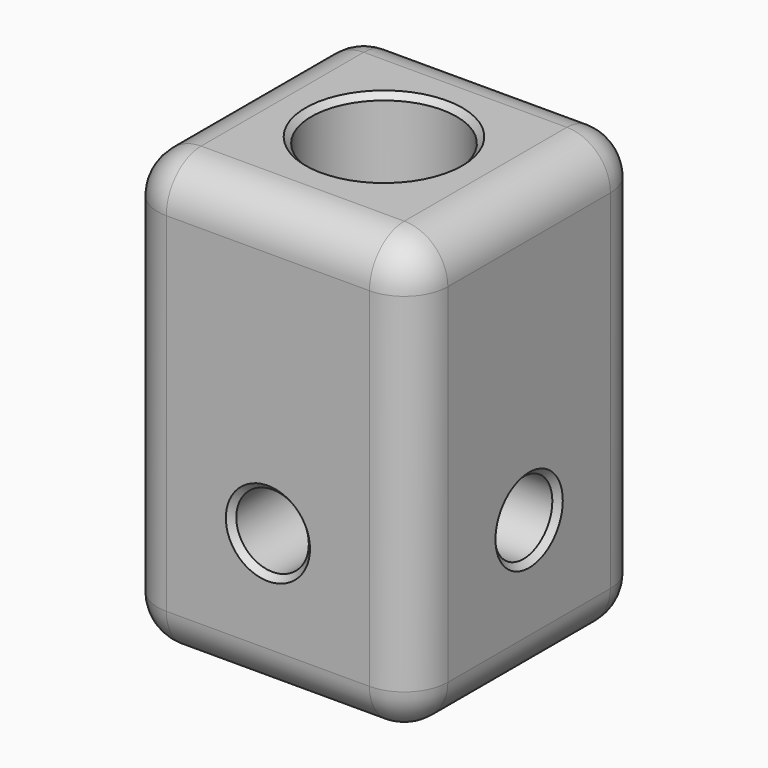
from build123d import *

# Parameters (mm, degrees)
F0_W          = 12.7
F0_H          = 12.7
F1_DEPTH      = 19.05
F2_R          = 1.5875
F3_DEPTH      = 25.4
F4_R          = 1.5875
F5_DEPTH      = 6.351
F5_DEPTH_BACK = 6.351
F6_R          = 3.175
F7_DEPTH      = 12.7
F8_R          = 1.905
F9_SIZE       = 0.254


with BuildPart() as f1:
    # F0 (on Top) → F1 (new body)
    with BuildSketch(Plane.XY):
        Rectangle(F0_W, F0_H)
    extrude(amount=F1_DEPTH)

    # F2 (on face) → F3 (cut)
    with BuildSketch(Plane.XZ.offset(6.35)):
        with Locations((0, 6.35)):
            Circle(F2_R)
    extrude(amount=-F3_DEPTH, mode=Mode.SUBTRACT)

    # F4 (on Right) → F5 (cut, two sides)
    with BuildSketch(Plane.YZ) as f5_sk:
        with Locations((0, 6.35)):
            Circle(F4_R)
    extrude(amount=-F5_DEPTH, mode=Mode.SUBTRACT)
    extrude(f5_sk.sketch, amount=F5_DEPTH_BACK, mode=Mode.SUBTRACT)

    # F6 (on face) → F7 (cut)
    with BuildSketch(Plane.XY.offset(19.05)):
        Circle(F6_R)
    extrude(amount=-F7_DEPTH, mode=Mode.SUBTRACT)

    # F8
    f8_edges = [f1.edges().sort_by_distance(p)[0] for p in [
        (-6.35, 0, 19.05),
        (0, -6.35, 19.05),
        (6.35, 0, 19.05),
        (0, 6.35, 19.05),
        (6.35, -6.35, 9.525),
        (6.35, 6.35, 9.525),
        (-6.35, -6.35, 9.525),
        (-6.35, 6.35, 9.525),
        (-6.35, 0, 0),
        (0, -6.35, 0),
        (6.35, 0, 0),
        (0, 6.35, 0),
    ]]
    fillet(f8_edges, radius=F8_R)

    # F9
    f9_edges = [f1.edges().sort_by_distance(p)[0] for p in [
        (6.35, -1.5875, 6.35),
        (-3.175, 0, 19.05),
        (-1.5875, 6.35, 6.35),
        (-6.35, -1.5875, 6.35),
        (-1.5875, -6.35, 6.35),
    ]]
    chamfer(f9_edges, length=F9_SIZE)


solid = f1.part
